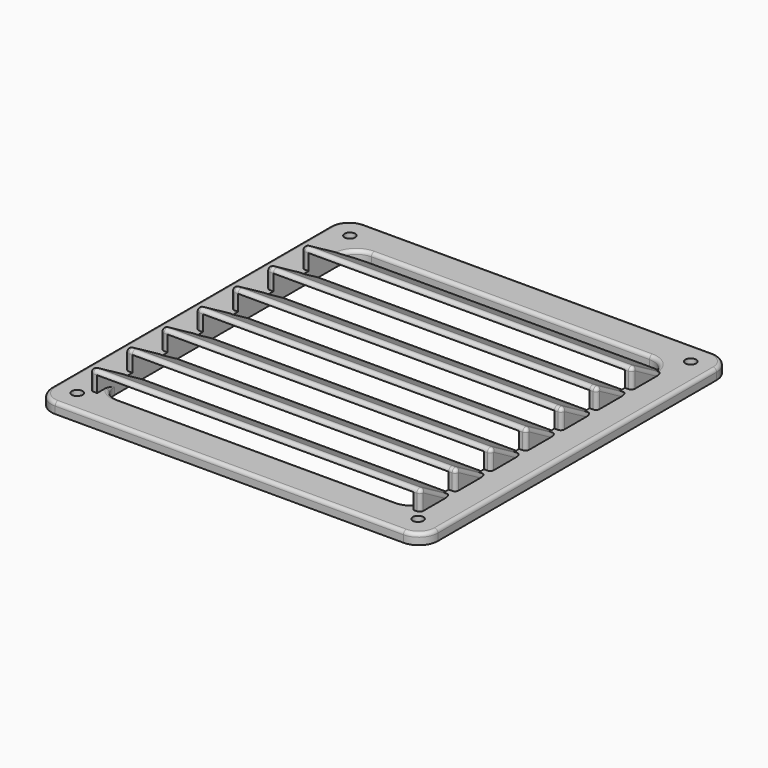
from build123d import *

# Parameters (mm, degrees)
F0_R     = 1.5
F1_DEPTH = 3
F3_DEPTH = 90
F5_DEPTH = 2
F7_DEPTH = 2
F8_R     = 1


with BuildPart() as f1:
    # F0 (on Top) → F1 (new body)
    with BuildSketch(Plane.XY):
        with BuildLine():
            Line((-48.5295127735, -52.713997378), (50.59180757, -52.713997378))
            ThreePointArc((50.59180757, -52.713997378), (54.4380016477, -51.1208516275), (56.0311473982, -47.2746575498))
            Line((56.0311473982, -47.2746575498), (56.0311473982, 51.8466627938))
            ThreePointArc((56.0311473982, 51.8466627938), (54.4380016477, 55.6928568715), (50.59180757, 57.286002622))
            Line((50.59180757, 57.286002622), (-48.5295127735, 57.286002622))
            ThreePointArc((-48.5295127735, 57.286002622), (-52.3757068513, 55.6928568715), (-53.9688526018, 51.8466627938))
            Line((-53.9688526018, 51.8466627938), (-53.9688526018, -47.2746575498))
            ThreePointArc((-53.9688526018, -47.2746575498), (-52.3757068513, -51.1208516275), (-48.5295127735, -52.713997378))
        make_face()
        with Locations((-47.4688526018, -46.213997378)):
            Circle(F0_R, mode=Mode.SUBTRACT)
        with Locations((49.5311473982, -46.213997378)):
            Circle(F0_R, mode=Mode.SUBTRACT)
        with Locations((-47.4688526018, 50.786002622)):
            Circle(F0_R, mode=Mode.SUBTRACT)
        with BuildLine():
            ThreePointArc((46.0311473982, -37.2746575498), (44.4380016477, -41.1208516275), (40.59180757, -42.713997378))
            Line((40.59180757, -42.713997378), (-38.5295127735, -42.713997378))
            ThreePointArc((-38.5295127735, -42.713997378), (-42.3757068513, -41.1208516275), (-43.9688526018, -37.2746575498))
            Line((-43.9688526018, -37.2746575498), (-43.9688526018, 41.8466627938))
            ThreePointArc((-43.9688526018, 41.8466627938), (-42.3757068513, 45.6928568715), (-38.5295127735, 47.286002622))
            Line((-38.5295127735, 47.286002622), (40.59180757, 47.286002622))
            ThreePointArc((40.59180757, 47.286002622), (44.4380016477, 45.6928568715), (46.0311473982, 41.8466627938))
            Line((46.0311473982, 41.8466627938), (46.0311473982, -37.2746575498))
        make_face(mode=Mode.SUBTRACT)
        with Locations((49.5311473982, 50.786002622)):
            Circle(F0_R, mode=Mode.SUBTRACT)
    extrude(amount=F1_DEPTH)

    # F2 (on face) → F3 (join)
    with BuildSketch(Plane.YZ.offset(-43.9688526018)):
        Polygon((-43.508716074, 7.4941222616), (-30.5582969189, 0), (-27.5582969189, 0), (-43.508716074, 9.2301561702), align=None)
        Polygon((-15.0165969189, 0), (-30.967016074, 9.2301561702), (-30.967016074, 7.4941222616), (-18.0165969189, 0), align=None)
        Polygon((-2.4748969189, 0), (-18.425316074, 9.2301561702), (-18.425316074, 7.4941222616), (-5.4748969189, 0), align=None)
        Polygon((10.0668030811, 0), (-5.883616074, 9.2301561702), (-5.883616074, 7.4941222616), (7.0668030811, 0), align=None)
        Polygon((22.6085030811, 0), (6.658083926, 9.2301561702), (6.658083926, 7.4941222616), (19.6085030811, 0), align=None)
        Polygon((35.1502030811, 0), (19.199783926, 9.2301561702), (19.199783926, 7.4941222616), (32.1502030811, 0), align=None)
        Polygon((47.6919030811, 0), (31.741483926, 9.2301561702), (31.741483926, 7.4941222616), (44.6919030811, 0), align=None)
    extrude(amount=F3_DEPTH)

    # F4 (on face) → F5 (join)
    with BuildSketch(Plane(origin=(-43.9688526018, 0, 0), x_dir=(0, -1, 0), z_dir=(-1, 0, 0))):
        Polygon((-31.741483926, 3), (-31.741483926, 9.2301561702), (-42.5076725456, 3), align=None)
        Polygon((-19.199783926, 3), (-19.199783926, 9.2301561702), (-29.9659725456, 3), align=None)
        Polygon((-6.658083926, 3), (-6.658083926, 9.2301561702), (-17.4242725456, 3), align=None)
        Polygon((5.883616074, 3), (5.883616074, 9.2301561702), (-4.8825725456, 3), align=None)
        Polygon((18.425316074, 3), (18.425316074, 9.2301561702), (7.6591274544, 3), align=None)
        Polygon((30.967016074, 3), (30.967016074, 9.2301561702), (20.2008274544, 3), align=None)
        Polygon((43.508716074, 3), (43.508716074, 9.2301561702), (32.7425274544, 3), align=None)
    extrude(amount=F5_DEPTH)

    # F6 (on face) → F7 (join)
    with BuildSketch(Plane.YZ.offset(46.0311473982)):
        Polygon((-32.7425274544, 3), (-43.508716074, 9.2301561702), (-43.508716074, 3), align=None)
        Polygon((-20.2008274544, 3), (-30.967016074, 9.2301561702), (-30.967016074, 3), align=None)
        Polygon((-7.6591274544, 3), (-18.425316074, 9.2301561702), (-18.425316074, 3), align=None)
        Polygon((4.8825725456, 3), (-5.883616074, 9.2301561702), (-5.883616074, 3), align=None)
        Polygon((17.4242725456, 3), (6.658083926, 9.2301561702), (6.658083926, 3), align=None)
        Polygon((29.9659725456, 3), (19.199783926, 9.2301561702), (19.199783926, 3), align=None)
        Polygon((42.5076725456, 3), (31.741483926, 9.2301561702), (31.741483926, 3), align=None)
    extrude(amount=F7_DEPTH)

    # F8 (call 1 of 10: OpenCascade refuses the feature's edges together)
    f8_edges = [f1.edges().sort_by_distance(p)[0] for p in [
        (-45.968853, 37.124578, 6.115078),
        (-45.968853, 31.741484, 6.115078),
        (1.031147, 31.741484, 9.230156),
        (48.031147, 31.741484, 6.115078),
        (48.031147, 37.124578, 6.115078),
    ]]
    fillet(f8_edges, radius=F8_R)

    # F8#2 (call 2 of 10)
    f8_2_edges = [f1.edges().sort_by_distance(p)[0] for p in [
        (-45.968853, 24.582878, 6.115078),
        (-45.968853, 19.199784, 6.115078),
        (1.031147, 19.199784, 9.230156),
        (48.031147, 19.199784, 6.115078),
        (48.031147, 24.582878, 6.115078),
    ]]
    fillet(f8_2_edges, radius=F8_R)

    # F8#3 (call 3 of 10)
    f8_3_edges = [f1.edges().sort_by_distance(p)[0] for p in [
        (-45.968853, 12.041178, 6.115078),
        (-45.968853, 6.658084, 6.115078),
        (1.031147, 6.658084, 9.230156),
        (48.031147, 6.658084, 6.115078),
        (48.031147, 12.041178, 6.115078),
    ]]
    fillet(f8_3_edges, radius=F8_R)

    # F8#4 (call 4 of 10)
    f8_4_edges = [f1.edges().sort_by_distance(p)[0] for p in [
        (1.031147, -18.425316, 9.230156),
        (-45.968853, -13.042222, 6.115078),
        (-45.968853, -18.425316, 6.115078),
        (48.031147, -18.425316, 6.115078),
        (48.031147, -13.042222, 6.115078),
    ]]
    fillet(f8_4_edges, radius=F8_R)

    # F8#5 (call 5 of 10)
    f8_5_edges = [f1.edges().sort_by_distance(p)[0] for p in [
        (-45.968853, -25.583922, 6.115078),
        (1.031147, -30.967016, 9.230156),
        (-45.968853, -30.967016, 6.115078),
        (48.031147, -30.967016, 6.115078),
        (48.031147, -25.583922, 6.115078),
    ]]
    fillet(f8_5_edges, radius=F8_R)

    # F8#6 (call 6 of 10)
    f8_6_edges = [f1.edges().sort_by_distance(p)[0] for p in [
        (1.031147, -43.508716, 9.230156),
        (-45.968853, -38.125622, 6.115078),
        (-45.968853, -43.508716, 6.115078),
        (48.031147, -38.125622, 6.115078),
        (48.031147, -43.508716, 6.115078),
    ]]
    fillet(f8_6_edges, radius=F8_R)

    # F8#7 (call 7 of 10)
    f8_7_edges = [f1.edges().sort_by_distance(p)[0] for p in [
        (-53.968853, 2.286003, 3),
    ]]
    fillet(f8_7_edges, radius=F8_R)

    # F8#8 (call 8 of 10)
    f8_8_edges = [f1.edges().sort_by_distance(p)[0] for p in [
        (48.031147, -5.883616, 6.115078),
        (48.031147, -0.500522, 6.115078),
        (1.031147, -5.883616, 9.230156),
        (-45.968853, -0.500522, 6.115078),
        (-45.968853, -5.883616, 6.115078),
    ]]
    fillet(f8_8_edges, radius=F8_R)

    # F8#9 (call 9 of 10)
    f8_9_edges = [f1.edges().sort_by_distance(p)[0] for p in [
        (1.031147, 47.286003, 3),
    ]]
    fillet(f8_9_edges, radius=F8_R)

    # F8#10 (call 10 of 10)
    f8_10_edges = [f1.edges().sort_by_distance(p)[0] for p in [
        (1.031147, -42.713997, 3),
    ]]
    fillet(f8_10_edges, radius=F8_R)


solid = f1.part
